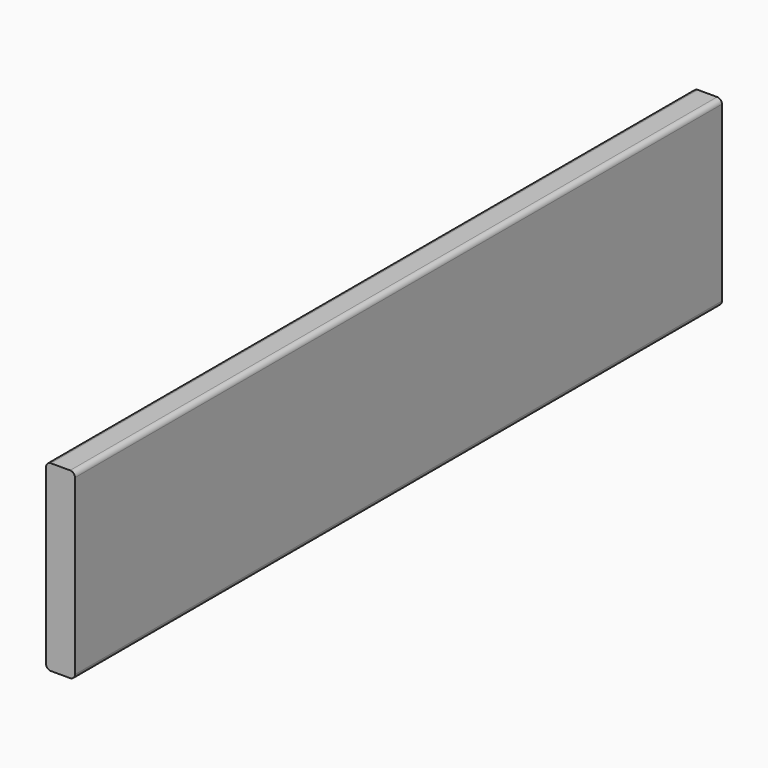
from build123d import *

# Parameters (mm, degrees)
F1_DEPTH = 533.4


with BuildPart() as f1:
    # F0 (on Front) → F1 (new body, symmetric)
    with BuildSketch(Plane.XZ):
        with BuildLine():
            ThreePointArc((19.05, 114.3), (17.190128, 118.790128), (12.7, 120.65))
            Line((12.7, 120.65), (-12.7, 120.65))
            ThreePointArc((-12.7, 120.65), (-17.190128, 118.790128), (-19.05, 114.3))
            Line((-19.05, 114.3), (-19.05, -114.3))
            ThreePointArc((-19.05, -114.3), (-17.190128, -118.790128), (-12.7, -120.65))
            Line((-12.7, -120.65), (12.7, -120.65))
            ThreePointArc((12.7, -120.65), (17.190128, -118.790128), (19.05, -114.3))
            Line((19.05, -114.3), (19.05, 114.3))
        make_face()
    extrude(amount=F1_DEPTH, both=True)


solid = f1.part
